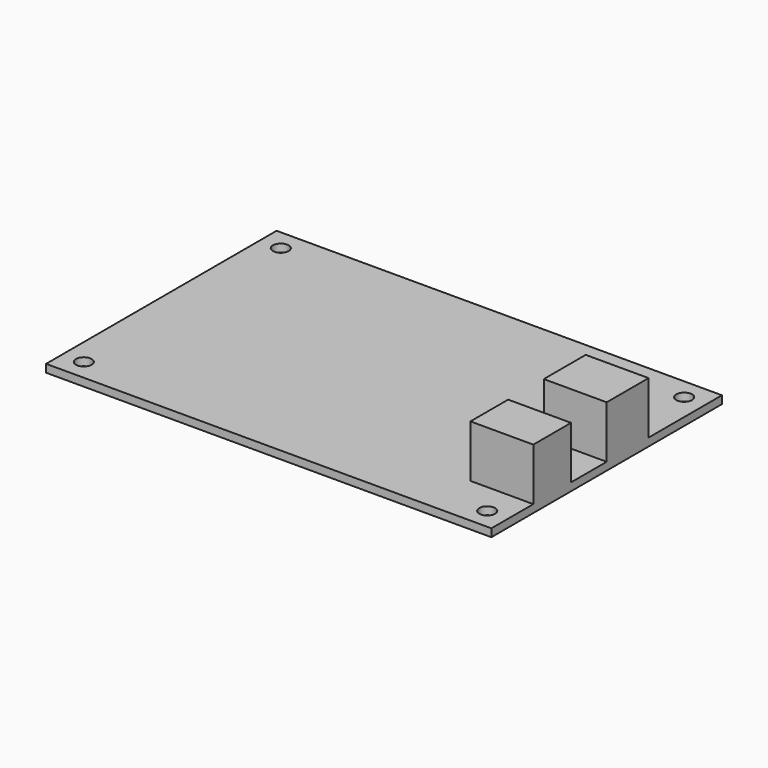
from build123d import *

# Parameters (mm, degrees)
F0_W     = 85
F0_H     = 55
F0_R     = 1.5
F1_DEPTH = 1.5
F2_W     = 12
F2_H     = 9
F2_H_2   = 10
F3_DEPTH = 10


with BuildPart() as f1:
    # F0 (on Top) → F1 (new body)
    with BuildSketch(Plane.XY):
        with Locations((42.5, 27.5)):
            Rectangle(F0_W, F0_H)
        with Locations((4, 4)):
            Circle(F0_R, mode=Mode.SUBTRACT)
        with Locations((81, 4)):
            Circle(F0_R, mode=Mode.SUBTRACT)
        with Locations((4, 51)):
            Circle(F0_R, mode=Mode.SUBTRACT)
        with Locations((81, 51)):
            Circle(F0_R, mode=Mode.SUBTRACT)
    extrude(amount=F1_DEPTH)

    # F2 (on face) → F3 (join)
    with BuildSketch(Plane.XY.offset(1.5)):
        with Locations((79, 14.5)):
            Rectangle(F2_W, F2_H)
        with Locations((79, 32.5)):
            Rectangle(F2_W, F2_H_2)
    extrude(amount=F3_DEPTH)


solid = f1.part
